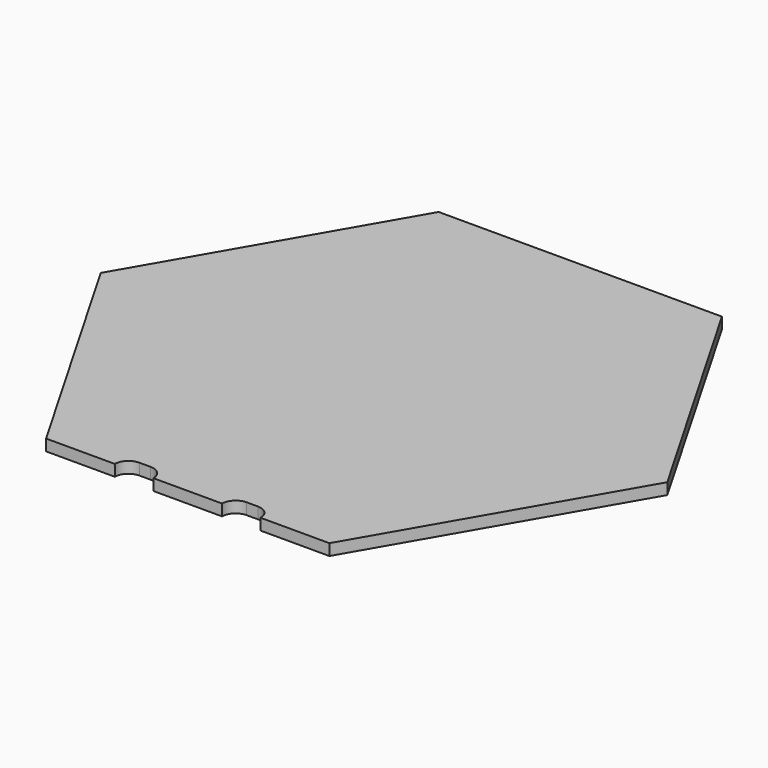
from build123d import *

# Parameters (mm, degrees)
F1_DEPTH = 0.5
F3_DEPTH = 0.501


with BuildPart() as f1:
    # F0 (on Top) → F1 (new body)
    with BuildSketch(Plane.XY):
        Polygon((6.25, -10.825318), (12.5, 0), (6.25, 10.825318), (-6.25, 10.825318), (-12.5, 0), (-6.25, -10.825318), align=None)
    extrude(amount=F1_DEPTH)

    # F2 (on face) → F3 (cut, through all)
    with BuildSketch(Plane.XY.offset(0.5)):
        with BuildLine():
            ThreePointArc((3.216667, -10.825318), (3.040931, -10.401053), (2.616667, -10.225318))
            Line((2.616667, -10.225318), (2.116667, -10.225318))
            ThreePointArc((2.116667, -10.225318), (1.692403, -10.401053), (1.516667, -10.825318))
            Line((1.516667, -10.825318), (3.216667, -10.825318))
        make_face()
        with BuildLine():
            Line((-3.216667, -10.825318), (-1.516667, -10.825318))
            ThreePointArc((-1.516667, -10.825318), (-1.692403, -10.401053), (-2.116667, -10.225318))
            Line((-2.116667, -10.225318), (-2.616667, -10.225318))
            ThreePointArc((-2.616667, -10.225318), (-3.040931, -10.401053), (-3.216667, -10.825318))
        make_face()
    extrude(amount=-F3_DEPTH, mode=Mode.SUBTRACT)


solid = f1.part
